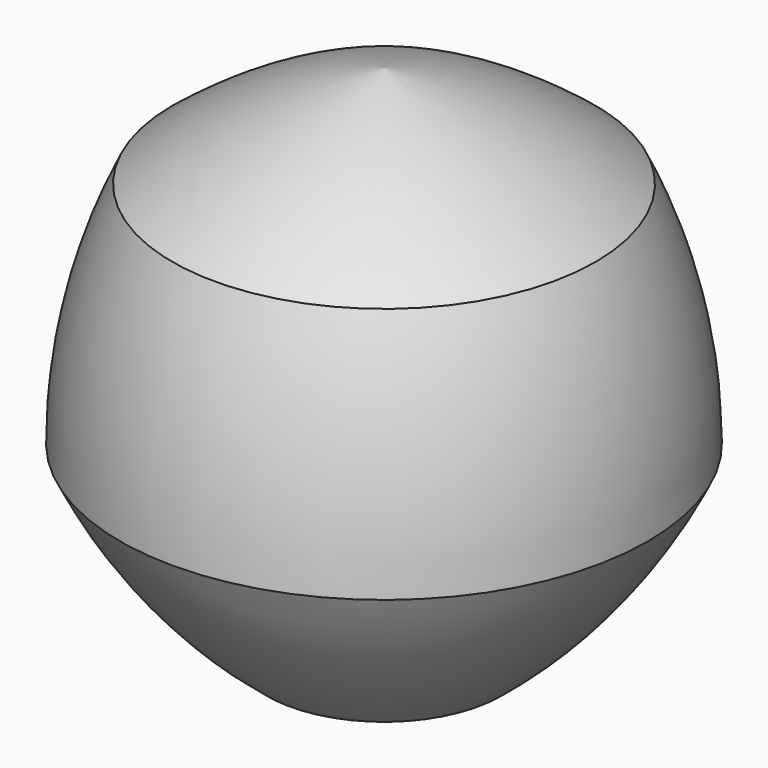
from build123d import *


with BuildPart() as f1:
    # F0 (on Front) → F1 (revolve)
    with BuildSketch(Plane.XZ):
        with BuildLine():
            ThreePointArc((0, -4.996693), (1.148439, -4.932198), (2.282435, -4.739525))
            Line((2.282435, -4.739525), (0, -4.739525))
            Line((0, -4.739525), (0, -4.996693))
        make_face()
        Polygon((0, -4.739525), (2.282435, -4.739525), (5.128584, -1.170566), (4.112805, 3.279853), (0, 5.260475), align=None)
        with BuildLine():
            Line((5.128584, -1.170566), (2.282435, -4.739525))
            ThreePointArc((2.282435, -4.739525), (3.906572, -3.115387), (5.128584, -1.170566))
        make_face()
        with BuildLine():
            Line((4.112805, 3.279853), (5.128584, -1.170566))
            ThreePointArc((5.128584, -1.170566), (4.871416, 1.111869), (4.112805, 3.279853))
        make_face()
        with BuildLine():
            ThreePointArc((4.112805, 3.279853), (2.167984, 4.501865), (0, 5.260475))
            Line((0, 5.260475), (4.112805, 3.279853))
        make_face()
    revolve(axis=Axis((0, 0, 0.424403), (0, 0, -1)))


solid = f1.part
